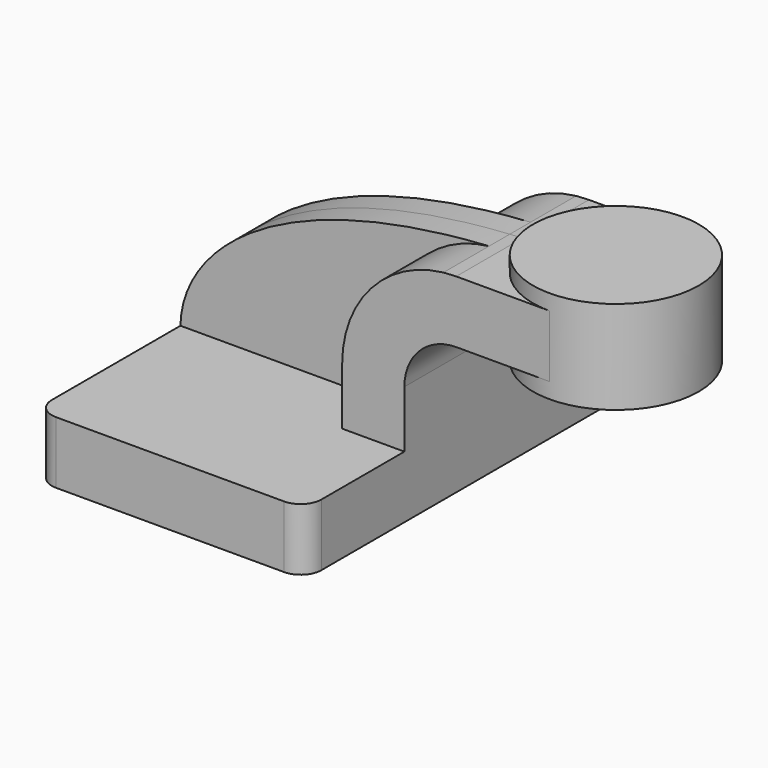
from build123d import *

# Parameters (mm, degrees)
F1_DEPTH = 63.5
F0_W     = 25.4
F0_H     = 19.05
F2_DEPTH = 25.4
F3_DEPTH = 7.9375
F5_R     = 6.35


with BuildPart() as f1:
    # F0 (on Front) → F1 (new body, symmetric)
    with BuildSketch(Plane.XZ):
        Polygon((22.225, 9.525), (-41.275, 9.525), (-41.275, -9.525), (41.275, -9.525), (41.275, 9.525), align=None)
    extrude(amount=F1_DEPTH, both=True)

    # F0 (on Front) → F2 (join, symmetric)
    with BuildSketch(Plane.XZ):
        with Locations((73.025, 52.4002)):
            Rectangle(F0_W, F0_H)
        with BuildLine():
            Line((22.225, 27.0002), (22.225, 9.525))
            Line((22.225, 9.525), (41.275, 9.525))
            Line((41.275, 9.525), (41.275, 27.0002))
            ThreePointArc((41.275, 27.0002), (45.9246798487, 38.2255201513), (57.15, 42.8752))
            Line((57.15, 42.8752), (60.325, 42.8752))
            Line((60.325, 42.8752), (60.325, 61.9252))
            Line((60.325, 61.9252), (57.15, 61.9252))
            add(Edge.make_bspline(
                [(53.2340423852, 61.7049676978), (54.5248174743, 61.7868070558), (55.8301107954, 61.8602827774), (57.15, 61.9252)],
                knots=[109.3680879834, 109.3680879834, 109.3680879834, 109.3680879834, 111.5045361635, 111.5045361635, 111.5045361635, 111.5045361635], degree=3))
            ThreePointArc((53.2340423852, 61.7049676978), (31.1065704572, 50.2702537741), (22.225, 27.0002))
        make_face()
    extrude(amount=F2_DEPTH, both=True)

    # F0 (on Front) → F3 (join, symmetric)
    with BuildSketch(Plane.XZ):
        with BuildLine():
            add(Edge.make_bspline(
                [(-41.275, 9.525), (-40.8733967882, 31.4084688362), (-12.8427315903, 57.5154843377), (53.2340423852, 61.7049676978)],
                knots=[0, 0, 0, 0, 109.3680879834, 109.3680879834, 109.3680879834, 109.3680879834], degree=3))
            Line((-41.275, 9.525), (22.225, 9.525))
            Line((22.225, 9.525), (22.225, 27.0002))
            ThreePointArc((22.225, 27.0002), (31.1065704572, 50.2702537741), (53.2340423852, 61.7049676978))
        make_face()
    extrude(amount=F3_DEPTH, both=True)

    # F0 (on Front) → F4 (revolve)
    with BuildSketch(Plane.XZ):
        Polygon((85.725, 66.675), (85.725, 61.9252), (85.725, 42.8752), (85.725, 38.1), (111.125, 38.1), (111.125, 66.675), align=None)
    revolve(axis=Axis((85.725, 0, 52.3875), (0, 0, 1)))

    # F5
    f5_edges = [f1.edges().sort_by_distance(p)[0] for p in [
        (41.275, -63.5, 0),
        (-41.275, -63.5, 0),
        (41.275, 63.5, 0),
        (-41.275, 63.5, 0),
    ]]
    fillet(f5_edges, radius=F5_R)


solid = f1.part
